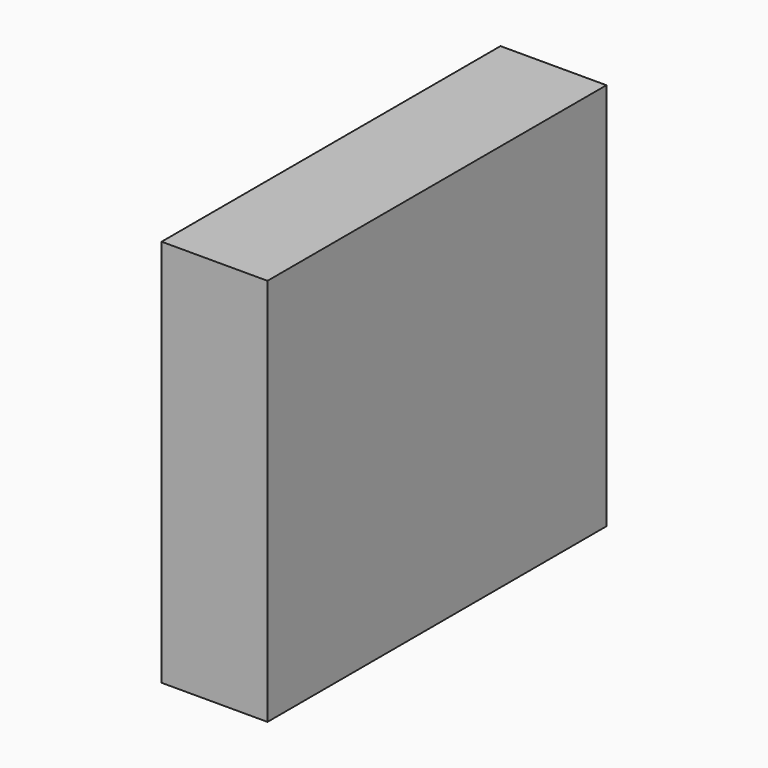
from build123d import *

# Parameters (mm, degrees)
BOX3569_W        = 1750
BOX3569_H        = 550
BOX3569_DEPTH    = 2150
BOX3519_W        = 500
BOX3519_H        = 550
BOX3519_DEPTH    = 500
ARRAY278_Z_COUNT = 4
ARRAY278_Z_PITCH = 550
BOX3116_W        = 2400
BOX3116_H        = 600
BOX3116_DEPTH    = 2200


with BuildPart() as box3569:
    # Box3569 → Box3569 (new body)
    with BuildSketch(Plane(origin=(1600, 800, 0), x_dir=(0, -1, 0), z_dir=(0, 0, 1))):
        with Locations((875, 275)):
            Rectangle(BOX3569_W, BOX3569_H)
    extrude(amount=BOX3569_DEPTH)


with BuildPart() as array278:
    # Box3519 → Box3519 (new body)
    with BuildSketch(Plane(origin=(1600, 1350, 0), x_dir=(0, -1, 0), z_dir=(0, 0, 1))):
        with Locations((250, 275)):
            Rectangle(BOX3519_W, BOX3519_H)
    extrude(amount=BOX3519_DEPTH)

    # Array278 Z: Array278 ×4


with BuildPart() as array278_1:
    add(array278.part)
    with Locations(*[(0, 0, i * ARRAY278_Z_PITCH) for i in range(1, ARRAY278_Z_COUNT)]):
        add(array278.part)


with BuildPart() as cut005:
    # Box3116 → Box3116 (new body)
    with BuildSketch(Plane(origin=(1600, 1400, 0), x_dir=(0, -1, 0), z_dir=(0, 0, 1))):
        with Locations((1200, 300)):
            Rectangle(BOX3116_W, BOX3116_H)
    extrude(amount=BOX3116_DEPTH)

    # Cut: cut Array278
    add(array278_1.part, mode=Mode.SUBTRACT)

    # Cut005: cut Box3569
    add(box3569.part, mode=Mode.SUBTRACT)


solid = cut005.part
